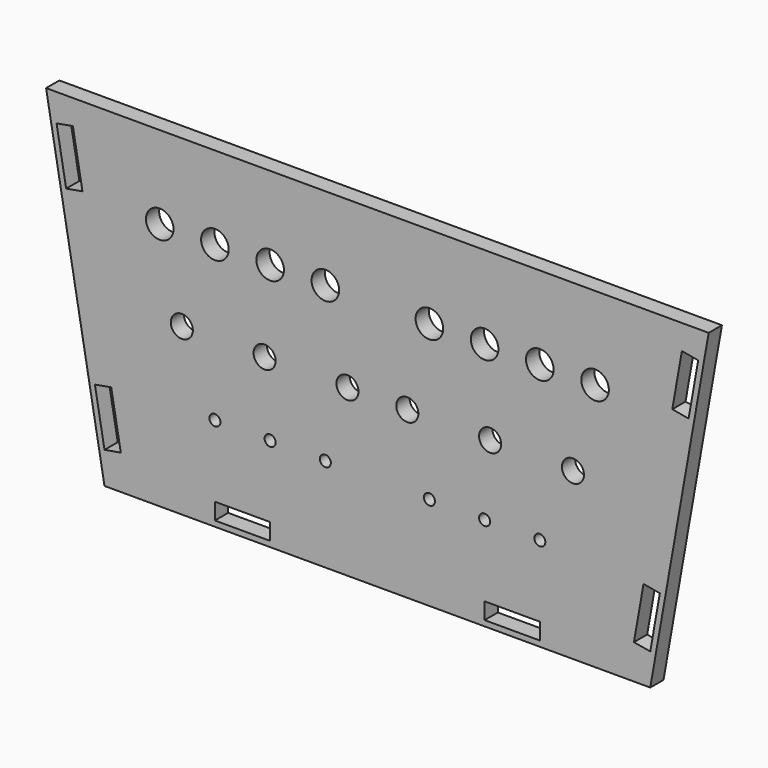
from build123d import *

# Parameters (mm, degrees)
F0_W     = 10
F0_H     = 3
F0_R     = 1
F0_R_2   = 2
F0_R_3   = 2.5
F1_DEPTH = 3


with BuildPart() as f1:
    # F0 (on Front) → F1 (new body)
    with BuildSketch(Plane.XZ):
        Polygon((-60, 60), (-49.420381, 0), (49.420381, 0), (60, 60), align=None)
        Polygon((-49.42053, 5.759612), (-51.157011, 15.60769), (-48.202588, 16.128634), (-46.466106, 6.280557), align=None, mode=Mode.SUBTRACT)
        with Locations((-24.420381, 2.5)):
            Rectangle(F0_W, F0_H, mode=Mode.SUBTRACT)
        with Locations((-29.420381, 17)):
            Circle(F0_R, mode=Mode.SUBTRACT)
        with Locations((-19.420381, 17)):
            Circle(F0_R, mode=Mode.SUBTRACT)
        with Locations((-9.420381, 17)):
            Circle(F0_R, mode=Mode.SUBTRACT)
        with Locations((24.420381, 2.5)):
            Rectangle(F0_W, F0_H, mode=Mode.SUBTRACT)
        Polygon((51.157011, 15.60769), (49.42053, 5.759612), (46.466106, 6.280557), (48.202588, 16.128634), align=None, mode=Mode.SUBTRACT)
        with Locations((9.420381, 17)):
            Circle(F0_R, mode=Mode.SUBTRACT)
        with Locations((19.420381, 17)):
            Circle(F0_R, mode=Mode.SUBTRACT)
        with Locations((29.420381, 17)):
            Circle(F0_R, mode=Mode.SUBTRACT)
        with Locations((-35.420381, 30)):
            Circle(F0_R_2, mode=Mode.SUBTRACT)
        with Locations((-20.420381, 30)):
            Circle(F0_R_2, mode=Mode.SUBTRACT)
        with Locations((-5.420381, 30)):
            Circle(F0_R_2, mode=Mode.SUBTRACT)
        Polygon((-56.366457, 45.151922), (-58.102938, 55), (-55.148515, 55.520945), (-53.412033, 45.672867), align=None, mode=Mode.SUBTRACT)
        with Locations((-39.420381, 45)):
            Circle(F0_R_3, mode=Mode.SUBTRACT)
        with Locations((-29.420381, 45)):
            Circle(F0_R_3, mode=Mode.SUBTRACT)
        with Locations((-19.420381, 45)):
            Circle(F0_R_3, mode=Mode.SUBTRACT)
        with Locations((-9.420381, 45)):
            Circle(F0_R_3, mode=Mode.SUBTRACT)
        with Locations((5.420381, 30)):
            Circle(F0_R_2, mode=Mode.SUBTRACT)
        with Locations((20.420381, 30)):
            Circle(F0_R_2, mode=Mode.SUBTRACT)
        with Locations((35.420381, 30)):
            Circle(F0_R_2, mode=Mode.SUBTRACT)
        with Locations((9.420381, 45)):
            Circle(F0_R_3, mode=Mode.SUBTRACT)
        with Locations((19.420381, 45)):
            Circle(F0_R_3, mode=Mode.SUBTRACT)
        with Locations((29.420381, 45)):
            Circle(F0_R_3, mode=Mode.SUBTRACT)
        with Locations((39.420381, 45)):
            Circle(F0_R_3, mode=Mode.SUBTRACT)
        Polygon((56.366457, 45.151922), (53.412033, 45.672867), (55.148515, 55.520945), (58.102938, 55), align=None, mode=Mode.SUBTRACT)
    extrude(amount=F1_DEPTH)


solid = f1.part
